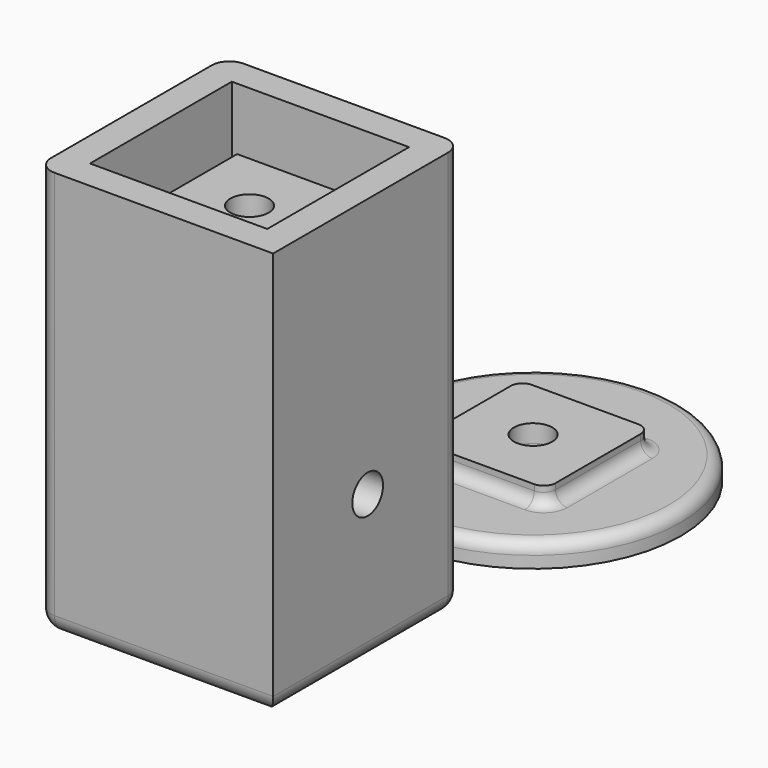
from build123d import *

# Parameters (mm, degrees)
SKETCH001_R      = 25
SKETCH001_R_2    = 3.25
EXTRUDE001_DEPTH = 4
SKETCH_W         = 22
SKETCH_H         = 22
SKETCH_R         = 3.25
EXTRUDE_DEPTH    = 3
FILLET_R         = 2
CYLINDER_R       = 3.25
CYLINDER_DEPTH   = 60
SKETCH003_W      = 40
SKETCH003_H      = 40
SKETCH003_W_2    = 26
SKETCH003_H_2    = 26
EXTRUDE003_DEPTH = 50
SKETCH004_W      = 40
SKETCH004_H      = 40
SKETCH004_W_2    = 20
SKETCH004_H_2    = 20
EXTRUDE004_DEPTH = 7.5
SKETCH006_W      = 40
SKETCH006_H      = 40
SKETCH006_W_2    = 30
SKETCH006_H_2    = 30
EXTRUDE005_DEPTH = 11.5
SKETCH002_W      = 21
SKETCH002_H      = 21
SKETCH002_R      = 3.25
EXTRUDE002_DEPTH = 4
FILLET001_R      = 3


with BuildPart() as diskmount:
    # Sketch001 → Extrude001 (new body)
    with BuildSketch(Plane.XY):
        Circle(SKETCH001_R)
        Circle(SKETCH001_R_2, mode=Mode.SUBTRACT)
    extrude(amount=-EXTRUDE001_DEPTH)


with BuildPart() as panelbasemount_fillet:
    # Sketch → Extrude (new body)
    with BuildSketch(Plane.XY):
        Rectangle(SKETCH_W, SKETCH_H)
        Circle(SKETCH_R, mode=Mode.SUBTRACT)
    extrude(amount=EXTRUDE_DEPTH)

    # Fusion: union diskMount
    add(diskmount.part)

    # Fillet
    fillet_edges = [panelbasemount_fillet.edges().sort_by_distance(p)[0] for p in [
        (-11, 11, 1.5),
        (-11, -11, 1.5),
        (-11, 0, 0),
        (11, 11, 1.5),
        (0, 11, 0),
        (11, -11, 1.5),
        (0, -11, 0),
        (-25, 0, 0),
        (11, 0, 0),
    ]]
    fillet(fillet_edges, radius=FILLET_R)


with BuildPart() as cylinder:
    # Cylinder → Cylinder (new body)
    with BuildSketch(Plane(origin=(25, -60, 25), x_dir=(0, 0, 1), z_dir=(-1, 0, 0))):
        Circle(CYLINDER_R)
    extrude(amount=CYLINDER_DEPTH)


with BuildPart() as tslotmount:
    # Sketch003 → Extrude003 (new body)
    with BuildSketch(Plane(origin=(0, -60, 0), x_dir=(1, 0, 0), z_dir=(0, 0, 1))):
        Rectangle(SKETCH003_W, SKETCH003_H)
        Rectangle(SKETCH003_W_2, SKETCH003_H_2, mode=Mode.SUBTRACT)
    extrude(amount=EXTRUDE003_DEPTH)


with BuildPart() as separator:
    # Sketch004 → Extrude004 (new body)
    with BuildSketch(Plane.XY.offset(50)):
        Rectangle(SKETCH004_W, SKETCH004_H)
        Rectangle(SKETCH004_W_2, SKETCH004_H_2, mode=Mode.SUBTRACT)
    extrude(amount=EXTRUDE004_DEPTH)


with BuildPart() as separator_1:
    # Extrude004 placement: moved
    add(separator.part.moved(Location((0, -60, 0))))


with BuildPart() as rotatebasemount:
    # Sketch006 → Extrude005 (new body)
    with BuildSketch(Plane(origin=(0, -60, 57.5), x_dir=(1, 0, 0), z_dir=(0, 0, 1))):
        Rectangle(SKETCH006_W, SKETCH006_H)
        Rectangle(SKETCH006_W_2, SKETCH006_H_2, mode=Mode.SUBTRACT)
    extrude(amount=EXTRUDE005_DEPTH)


with BuildPart() as tslotmount001:
    # Sketch002 → Extrude002 (new body)
    with BuildSketch(Plane(origin=(0, -60, 57.5), x_dir=(1, 0, 0), z_dir=(0, 0, 1))):
        Rectangle(SKETCH002_W, SKETCH002_H)
        Circle(SKETCH002_R, mode=Mode.SUBTRACT)
    extrude(amount=EXTRUDE002_DEPTH)

    # Fusion001: union tSlotMount, separator, rotateBaseMount
    add(tslotmount.part)
    add(separator_1.part)
    add(rotatebasemount.part)

    # Cut: cut Cylinder
    add(cylinder.part, mode=Mode.SUBTRACT)

    # Fillet001
    fillet001_edges = [tslotmount001.edges().sort_by_distance(p)[0] for p in [
        (-20, -60, 0),
        (0, -80, 0),
        (20, -60, 0),
        (0, -40, 0),
        (-20, -40, 34.5),
        (-20, -80, 34.5),
        (0, -73, 0),
        (20, -40, 34.5),
    ]]
    fillet(fillet001_edges, radius=FILLET001_R)


solid = Compound([panelbasemount_fillet.part, tslotmount001.part])
